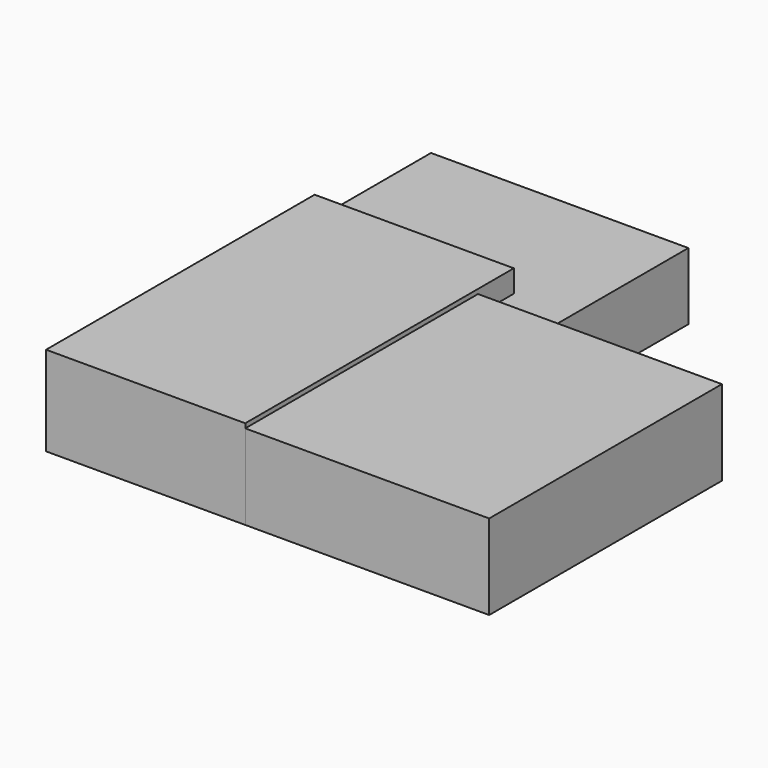
from build123d import *

# Parameters (mm, degrees)
F0_W      = 105.41
F0_H      = 101.6
F1_DEPTH  = 25
F3_D      = 3.048
F4_D      = 3.048
F5_D      = 3.048
F6_D      = 3.048
F7_W      = 115
F7_H      = 215
F8_DEPTH  = 30
F9_W      = 198
F9_H      = 130
F10_DEPTH = 38
F11_W     = 89
F11_H     = 150
F12_DEPTH = 40


with BuildPart() as f1:
    # F0 (on Top) → F1 (new body)
    with BuildSketch(Plane.XY):
        with Locations((52.705, 50.8)):
            Rectangle(F0_W, F0_H)
    extrude(amount=F1_DEPTH)

    # F3 (through all)
    with Locations(Plane.XY.offset(25)):
        with Locations((3.81, 97.79)):
            Hole(F3_D / 2)

    # F4 (through all)
    with Locations(Plane.XY.offset(25)):
        with Locations((101.6, 97.79)):
            Hole(F4_D / 2)

    # F5 (through all)
    with Locations(Plane.XY.offset(25)):
        with Locations((3.81, 3.81)):
            Hole(F5_D / 2)

    # F6 (through all)
    with Locations(Plane.XY.offset(25)):
        with Locations((101.6, 3.81)):
            Hole(F6_D / 2)


with BuildPart() as f8:
    # F7 (on Top) → F8 (new body)
    with BuildSketch(Plane.XY):
        with Locations((57.5, 107.5)):
            Rectangle(F7_W, F7_H)
    extrude(amount=F8_DEPTH)


with BuildPart() as f10:
    # F9 (on Top) → F10 (new body)
    with BuildSketch(Plane.XY):
        with Locations((99, 65)):
            Rectangle(F9_W, F9_H)
        with Locations((99, 65)):
            Rectangle(F9_W, F9_H)
    extrude(amount=F10_DEPTH)


with BuildPart() as f12:
    # F11 (on Top) → F12 (new body)
    with BuildSketch(Plane.XY):
        with Locations((44.5, 75)):
            Rectangle(F11_W, F11_H)
        with Locations((44.5, 75)):
            Rectangle(F11_W, F11_H)
    extrude(amount=F12_DEPTH)


solid = Compound([f1.part, f8.part, f10.part, f12.part])
